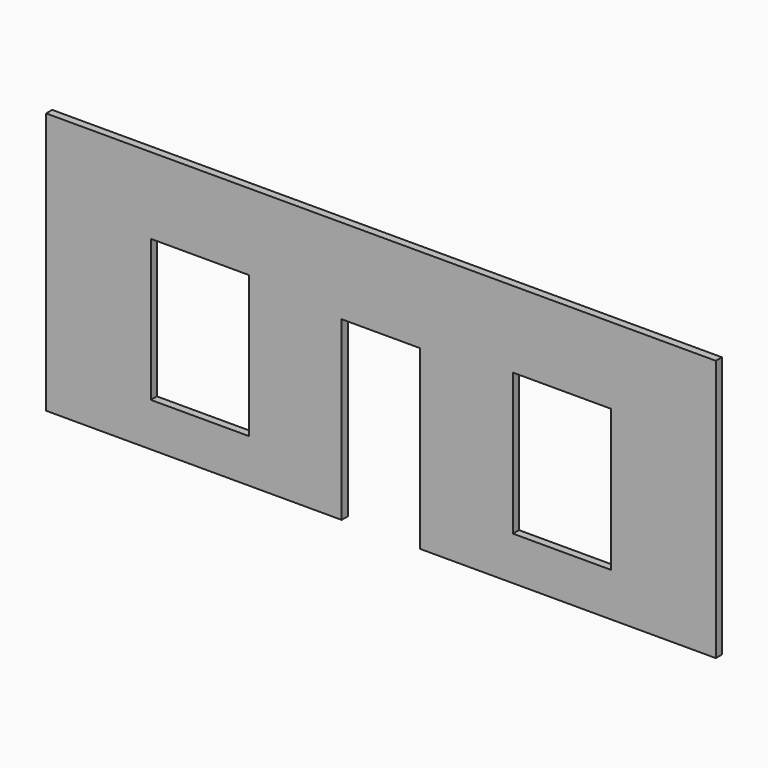
from build123d import *

# Parameters (mm, degrees)
F0_W     = 7797.8
F0_H     = 88.9
F1_DEPTH = 3048
F2_W     = 1143
F2_H     = 1651
F2_W_2   = 914.4
F2_H_2   = 2057.4
F3_DEPTH = 88.901


with BuildPart() as f1:
    # F0 (on Top) → F1 (new body)
    with BuildSketch(Plane.XY):
        Rectangle(F0_W, F0_H)
    extrude(amount=F1_DEPTH)

    # F2 (on face) → F3 (cut, through all)
    with BuildSketch(Plane.XZ.offset(44.45)):
        with Locations((-2108.2, 1333.5)):
            Rectangle(F2_W, F2_H)
        with Locations((2108.2, 1333.5)):
            Rectangle(F2_W, F2_H)
        with Locations((0, 1028.7)):
            Rectangle(F2_W_2, F2_H_2)
    extrude(amount=-F3_DEPTH, mode=Mode.SUBTRACT)


solid = f1.part
